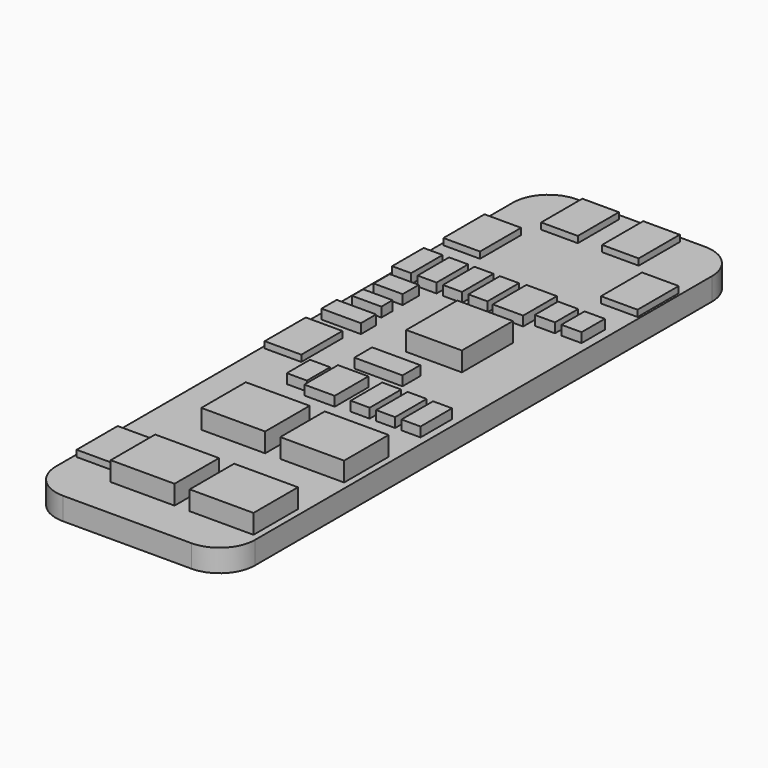
from build123d import *

# Parameters (mm, degrees)
PAD_DEPTH     = 1.75
SKETCH001_W   = 2.85
SKETCH001_H   = 4
PAD001_DEPTH  = 0.5
SKETCH002_W   = 4.33
SKETCH002_H   = 4.97
SKETCH002_W_2 = 4.97
SKETCH002_H_2 = 4.33
PAD002_DEPTH  = 1.5
SKETCH003_W   = 1.57
SKETCH003_H   = 2.26
SKETCH003_W_2 = 2.37
SKETCH003_H_2 = 3.28
SKETCH003_W_3 = 1.48
SKETCH003_H_3 = 3.07
SKETCH003_W_4 = 2.29
SKETCH003_H_4 = 1.09
SKETCH003_W_5 = 2.26
SKETCH003_H_5 = 1.57
SKETCH003_W_6 = 3.07
SKETCH003_H_6 = 1.48
SKETCH003_W_7 = 3.75
SKETCH003_H_7 = 1.73
PAD003_DEPTH  = 0.75


with BuildPart() as part:
    # Sketch → Pad (new body)
    with BuildSketch(Plane.XY):
        with BuildLine():
            Line((-7.75, 22.25), (-7.75, -22.25))
            ThreePointArc((-7.75, -22.25), (-6.944544, -24.194544), (-5, -25))
            Line((-5, -25), (5, -25))
            ThreePointArc((5, -25), (6.944544, -24.194544), (7.75, -22.25))
            Line((7.75, -22.25), (7.75, 22.25))
            ThreePointArc((7.75, 22.25), (6.944544, 24.194544), (5, 25))
            Line((5, 25), (-5, 25))
            ThreePointArc((-5, 25), (-6.944544, 24.194544), (-7.75, 22.25))
        make_face()
    extrude(amount=PAD_DEPTH)

    # Sketch001 (on Face10 of Pad) → Pad001 (join)
    with BuildSketch(Plane.XY.offset(1.75)):
        with Locations((-6.115, 17.21)):
            Rectangle(SKETCH001_W, SKETCH001_H)
        with Locations((-2.755, 22.53)):
            Rectangle(SKETCH001_W, SKETCH001_H)
        with Locations((1.985, 22.53)):
            Rectangle(SKETCH001_W, SKETCH001_H)
        with Locations((6.155, 17.21)):
            Rectangle(SKETCH001_W, SKETCH001_H)
        with Locations((-6.115, -0.19)):
            Rectangle(SKETCH001_W, SKETCH001_H)
        with Locations((-6.115, -18.5)):
            Rectangle(SKETCH001_W, SKETCH001_H)
    extrude(amount=PAD001_DEPTH)

    # Sketch002 (on Face5 of Pad001) → Pad002 (join)
    with BuildSketch(Plane.XY.offset(1.75)):
        with Locations((1.625, 5.325)):
            Rectangle(SKETCH002_W, SKETCH002_H)
        with Locations((-1.375, -10.795)):
            Rectangle(SKETCH002_W_2, SKETCH002_H_2)
        with Locations((4.775, -10.795)):
            Rectangle(SKETCH002_W_2, SKETCH002_H_2)
        with Locations((-1.375, -19.615)):
            Rectangle(SKETCH002_W_2, SKETCH002_H_2)
        with Locations((4.775, -19.615)):
            Rectangle(SKETCH002_W_2, SKETCH002_H_2)
    extrude(amount=PAD002_DEPTH)

    # Sketch003 (on Face5 of Pad002) → Pad003 (join)
    with BuildSketch(Plane.XY.offset(1.75)):
        with Locations((-2.775, -3.885)):
            Rectangle(SKETCH003_W, SKETCH003_H)
        with Locations((-0.605, -3.885)):
            Rectangle(SKETCH003_W_2, SKETCH003_H_2)
        with Locations((2.48, -3.885)):
            Rectangle(SKETCH003_W_3, SKETCH003_H_3)
        with Locations((4.46, -3.885)):
            Rectangle(SKETCH003_W_3, SKETCH003_H_3)
        with Locations((6.44, -3.885)):
            Rectangle(SKETCH003_W_3, SKETCH003_H_3)
        with Locations((-5.685, 5.965)):
            Rectangle(SKETCH003_W_4, SKETCH003_H_4)
        with Locations((-5.685, 8.295)):
            Rectangle(SKETCH003_W_5, SKETCH003_H_5)
        with Locations((-5.685, 3.68)):
            Rectangle(SKETCH003_W_6, SKETCH003_H_6)
        with Locations((-6.62, 11.525)):
            Rectangle(SKETCH003_W_3, SKETCH003_H_3)
        with Locations((-4.64, 11.525)):
            Rectangle(SKETCH003_W_3, SKETCH003_H_3)
        with Locations((-2.66, 11.525)):
            Rectangle(SKETCH003_W_3, SKETCH003_H_3)
        with Locations((-0.68, 11.525)):
            Rectangle(SKETCH003_W_3, SKETCH003_H_3)
        with Locations((1.745, 11.525)):
            Rectangle(SKETCH003_W_2, SKETCH003_H_2)
        with Locations((4.215, 11.525)):
            Rectangle(SKETCH003_W, SKETCH003_H)
        with Locations((6.285, 11.525)):
            Rectangle(SKETCH003_W, SKETCH003_H)
        with Locations((0.245, 0.015)):
            Rectangle(SKETCH003_W_7, SKETCH003_H_7)
    extrude(amount=PAD003_DEPTH)


solid = part.part
